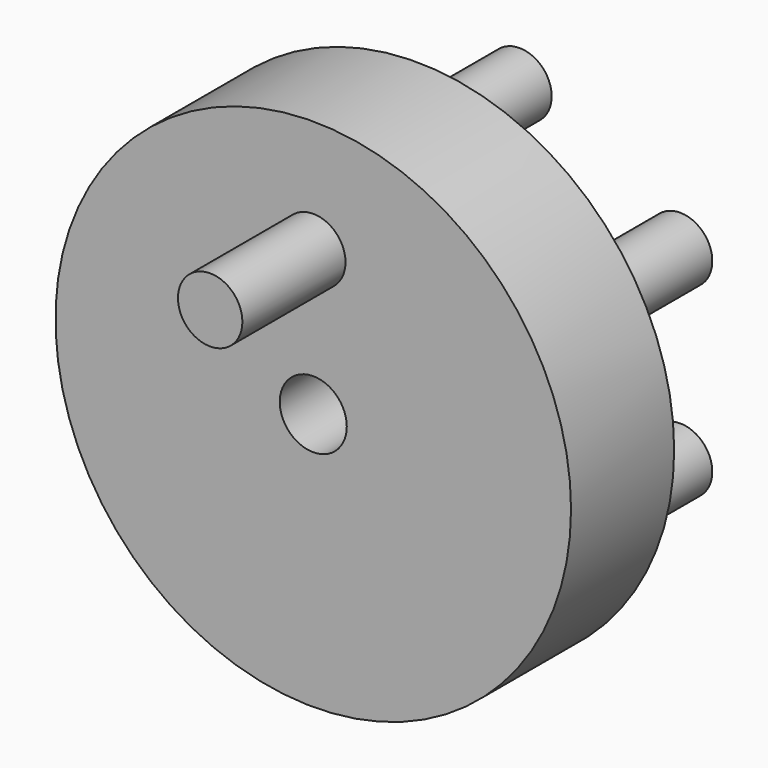
from build123d import *

# Parameters (mm, degrees)
F0_R     = 25.4
F1_DEPTH = 12.7
F2_R     = 3.302
F3_DEPTH = 12.7
F4_R     = 3.175
F5_DEPTH = 12.7
F6_R     = 3.169132
F7_DEPTH = 12.7


with BuildPart() as f1:
    # F0 (on Front) → F1 (new body)
    with BuildSketch(Plane.XZ):
        Circle(F0_R)
    extrude(amount=F1_DEPTH)

    # F2 (on face) → F3 (cut)
    with BuildSketch(Plane.XZ.offset(12.7)):
        Circle(F2_R)
    extrude(amount=-F3_DEPTH, mode=Mode.SUBTRACT)

    # F4 (on face) → F5 (join)
    with BuildSketch(Plane.XZ.offset(12.7)):
        with Locations((0, 14.211592)):
            Circle(F4_R)
    extrude(amount=F5_DEPTH)

    # F6 (on face) → F7 (join)
    with BuildSketch(Plane(origin=(0, 0, 0), x_dir=(-1, 0, 0), z_dir=(0, 1, 0))):
        with Locations((0, 18.275665)):
            Circle(F6_R)
        with Locations((-15.82719, 9.137833)):
            Circle(F6_R)
        with Locations((-15.82719, -9.137833)):
            Circle(F6_R)
        with Locations((0, -18.275665)):
            Circle(F6_R)
        with Locations((15.82719, -9.137833)):
            Circle(F6_R)
        with Locations((15.82719, 9.137833)):
            Circle(F6_R)
    extrude(amount=F7_DEPTH)


solid = f1.part
